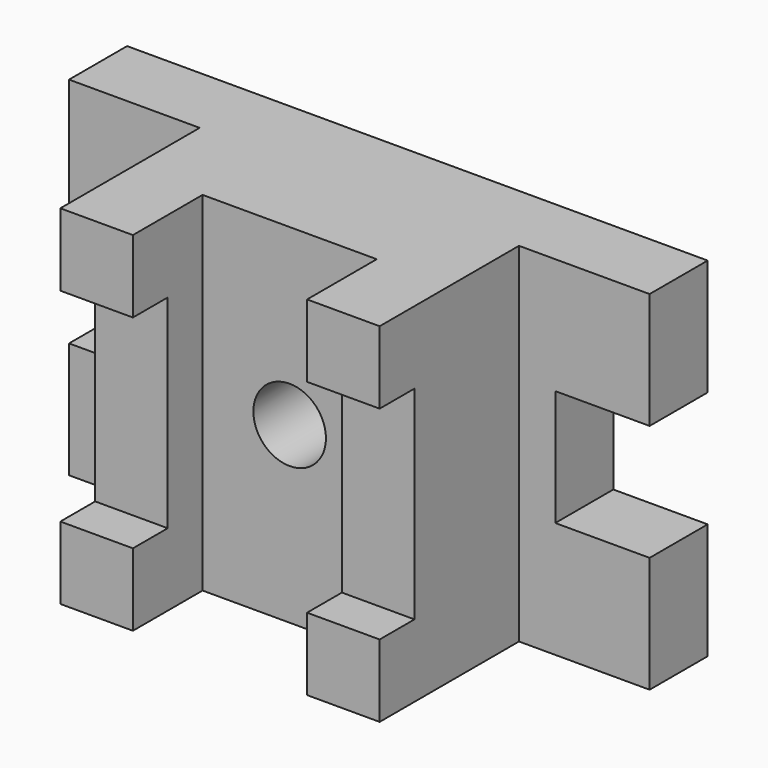
from build123d import *

# Parameters (mm, degrees)
F1_DEPTH  = 31.75
F2_W      = 139.7
F2_H      = 152.4
F3_DEPTH  = 38.1
F4_W      = 31.75
F4_H      = 152.4
F5_DEPTH  = 19.05
F4_R      = 15.875
F6_DEPTH  = 69.851
F7_W      = 31.75
F7_H      = 31.75
F8_DEPTH  = 19.05
F9_W      = 31.75
F9_H      = 31.75
F10_DEPTH = 19.05


with BuildPart() as f1:
    # F0 (on Front) → F1 (new body)
    with BuildSketch(Plane.XZ):
        Polygon((179.5150149531, 50.8), (-74.4849850469, 50.8), (-74.4849850469, 0), (-33.2099850469, 0), (-33.2099850469, -50.8), (-74.4849850469, -50.8), (-74.4849850469, -101.6), (179.5150149531, -101.6), (179.5150149531, -50.8), (138.2400149531, -50.8), (138.2400149531, 0), (179.5150149531, 0), align=None)
    extrude(amount=F1_DEPTH)

    # F2 (on face) → F3 (join)
    with BuildSketch(Plane.XZ.offset(31.75)):
        with Locations((52.5150149531, -25.4)):
            Rectangle(F2_W, F2_H)
    extrude(amount=F3_DEPTH)

    # F4 (on face) → F5 (join)
    with BuildSketch(Plane.XZ.offset(69.85)):
        with Locations((-1.4599850469, -25.4)):
            Rectangle(F4_W, F4_H)
        with Locations((106.4900149531, -25.4)):
            Rectangle(F4_W, F4_H)
    extrude(amount=F5_DEPTH)

    # F4 (on face) → F6 (cut, through all)
    with BuildSketch(Plane.XZ.offset(69.85)):
        with Locations((52.5150149531, -25.4)):
            Circle(F4_R)
    extrude(amount=-F6_DEPTH, mode=Mode.SUBTRACT)

    # F7 (on face) → F8 (join)
    with BuildSketch(Plane.XZ.offset(88.9)):
        with Locations((-1.4599850469, 34.925)):
            Rectangle(F7_W, F7_H)
        with Locations((-1.4599850469, -85.725)):
            Rectangle(F7_W, F7_H)
    extrude(amount=F8_DEPTH)

    # F9 (on face) → F10 (join)
    with BuildSketch(Plane.XZ.offset(88.9)):
        with Locations((106.4900149531, 34.925)):
            Rectangle(F9_W, F9_H)
        with Locations((106.4900149531, -85.725)):
            Rectangle(F9_W, F9_H)
    extrude(amount=F10_DEPTH)


solid = f1.part
